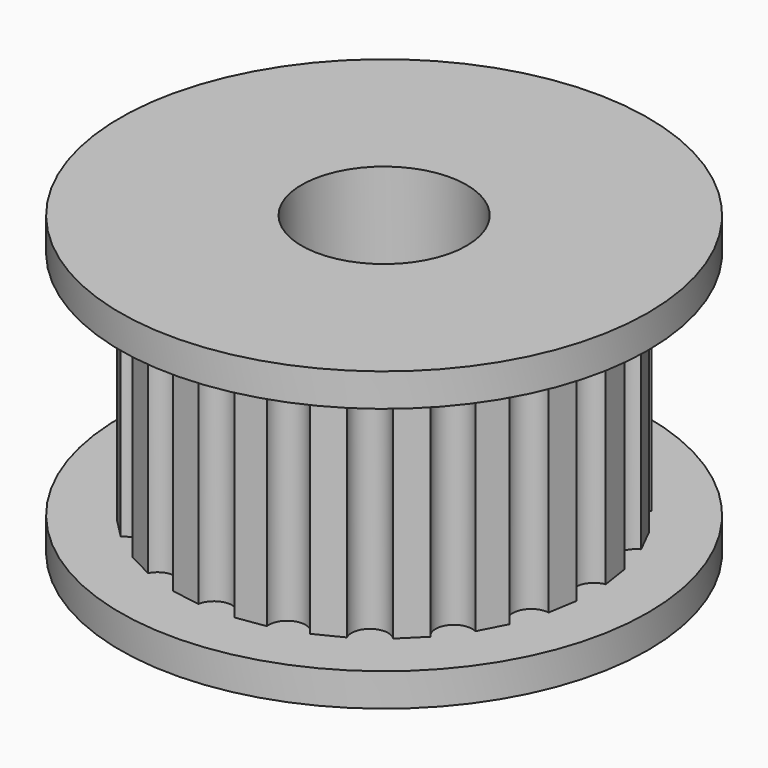
from build123d import *

# Parameters (mm, degrees)
F0_R     = 8
F1_DEPTH = 1
F3_DEPTH = 7
F4_R     = 8
F5_DEPTH = 1
F6_R     = 2.5
F7_DEPTH = 9


with BuildPart() as f1:
    # F0 (on Top) → F1 (new body)
    with BuildSketch(Plane.XY):
        Circle(F0_R)
    extrude(amount=F1_DEPTH)

    # F2 (on face) → F3 (join)
    with BuildSketch(Plane.XY.offset(1)):
        with BuildLine():
            Line((3.2969840058, 5.4029047423), (2.5065493984, 5.8119440209))
            ThreePointArc((2.5065493984, 5.8119440209), (1.8388116131, 5.5402736363), (1.4660287385, 6.1572918501))
            Line((1.4660287385, 6.1572918501), (0.587880666, 6.3020535948))
            ThreePointArc((0.587880666, 6.3020535948), (0.0367750598, 5.8373373817), (-0.5084316362, 6.3089603312))
            Line((-0.5084316362, 6.3089603312), (-1.3883339221, 6.1752742538))
            ThreePointArc((-1.3883339221, 6.1752742538), (-1.3836134942, 6.133709972), (-1.3820370329, 6.0919082168))
            ThreePointArc((-1.3820370329, 6.0919082168), (-1.8091754115, 5.5518374754), (-2.4331231799, 5.843063818))
            Line((-2.4331231799, 5.843063818), (-3.2286487127, 5.4440160432))
            ThreePointArc((-3.2286487127, 5.4440160432), (-3.1846641182, 5.3230332658), (-3.1697348597, 5.1951716444))
            ThreePointArc((-3.1697348597, 5.1951716444), (-3.5139617494, 4.6817520343), (-4.1196436741, 4.8052075072))
            Line((-4.1196436741, 4.8052075072), (-4.7529208721, 4.1798596116))
            ThreePointArc((-4.7529208721, 4.1798596116), (-4.6344100765, 4.0006685847), (-4.5928296865, 3.7898954745))
            ThreePointArc((-4.5928296865, 3.7898954745), (-4.859335021, 3.3157690905), (-5.4029047423, 3.2969840058))
            Line((-5.4029047423, 3.2969840058), (-5.8119440209, 2.5065493984))
            ThreePointArc((-5.8119440209, 2.5065493984), (-5.5928926927, 2.3021325953), (-5.5120190767, 2.0136379298))
            ThreePointArc((-5.5120190767, 2.0136379298), (-5.707906552, 1.590479337), (-6.1572918501, 1.4660287385))
            Line((-6.1572918501, 1.4660287385), (-6.3020535948, 0.587880666))
            ThreePointArc((-6.3020535948, 0.587880666), (-5.9691677754, 0.3993839994), (-5.8373263682, 0.0402714747))
            ThreePointArc((-5.8373263682, 0.0402714747), (-5.9714385265, -0.3214997579), (-6.3089603312, -0.5084316362))
            Line((-6.3089603312, -0.5084316362), (-6.1752742538, -1.3883339221))
            ThreePointArc((-6.1752742538, -1.3883339221), (-5.7301369842, -1.5161491913), (-5.5369082168, -1.9370370329))
            ThreePointArc((-5.5369082168, -1.9370370329), (-5.6196087137, -2.228512897), (-5.843063818, -2.4331231799))
            Line((-5.843063818, -2.4331231799), (-5.4440160432, -3.2286487127))
            ThreePointArc((-5.4440160432, -3.2286487127), (-4.9036957803, -3.2524353565), (-4.6401716444, -3.7247348597))
            ThreePointArc((-4.6401716444, -3.7247348597), (-4.683090061, -3.938738252), (-4.8052075072, -4.1196436741))
            Line((-4.8052075072, -4.1196436741), (-4.1798596116, -4.7529208721))
            ThreePointArc((-4.1798596116, -4.7529208721), (-3.5758920821, -4.6357481031), (-3.2348954745, -5.1478296865))
            ThreePointArc((-3.2348954745, -5.1478296865), (-3.2506409589, -5.2790911335), (-3.2969840058, -5.4029047423))
            Line((-3.2969840058, -5.4029047423), (-2.5065493984, -5.8119440209))
            ThreePointArc((-2.5065493984, -5.8119440209), (-1.8823764829, -5.5277645611), (-1.4586379298, -6.0670190767))
            ThreePointArc((-1.4586379298, -6.0670190767), (-1.4604887179, -6.1123064857), (-1.4660287385, -6.1572918501))
            Line((-1.4660287385, -6.1572918501), (-0.587880666, -6.3020535948))
            ThreePointArc((-0.587880666, -6.3020535948), (-0.0367750598, -5.8373373817), (0.5084316362, -6.3089603312))
            Line((0.5084316362, -6.3089603312), (1.3883339221, -6.1752742538))
            ThreePointArc((1.3883339221, -6.1752742538), (1.7688612926, -5.5630018732), (2.4331231799, -5.843063818))
            Line((2.4331231799, -5.843063818), (3.2286487127, -5.4440160432))
            ThreePointArc((3.2286487127, -5.4440160432), (3.4013491773, -4.7441209815), (4.1196436741, -4.8052075072))
            Line((4.1196436741, -4.8052075072), (4.7529208721, -4.1798596116))
            ThreePointArc((4.7529208721, -4.1798596116), (4.7008893059, -3.460852474), (5.4029047423, -3.2969840058))
            Line((5.4029047423, -3.2969840058), (5.8119440209, -2.5065493984))
            ThreePointArc((5.8119440209, -2.5065493984), (5.5402736363, -1.8388116131), (6.1572918501, -1.4660287385))
            Line((6.1572918501, -1.4660287385), (6.3020535948, -0.587880666))
            ThreePointArc((6.3020535948, -0.587880666), (5.8373373817, -0.0367750598), (6.3089603312, 0.5084316362))
            Line((6.3089603312, 0.5084316362), (6.1752742538, 1.3883339221))
            ThreePointArc((6.1752742538, 1.3883339221), (5.5630018732, 1.7688612926), (5.843063818, 2.4331231799))
            Line((5.843063818, 2.4331231799), (5.4440160432, 3.2286487127))
            ThreePointArc((5.4440160432, 3.2286487127), (4.7441209815, 3.4013491773), (4.8052075072, 4.1196436741))
            Line((4.8052075072, 4.1196436741), (4.1798596116, 4.7529208721))
            ThreePointArc((4.1798596116, 4.7529208721), (3.460852474, 4.7008893059), (3.2969840058, 5.4029047423))
        make_face()
    extrude(amount=F3_DEPTH)

    # F4 (on face) → F5 (join)
    with BuildSketch(Plane.XY.offset(8)):
        Circle(F4_R)
    extrude(amount=F5_DEPTH)

    # F6 (on face) → F7 (cut)
    with BuildSketch(Plane.XY.offset(9)):
        Circle(F6_R)
    extrude(amount=-F7_DEPTH, mode=Mode.SUBTRACT)


solid = f1.part
